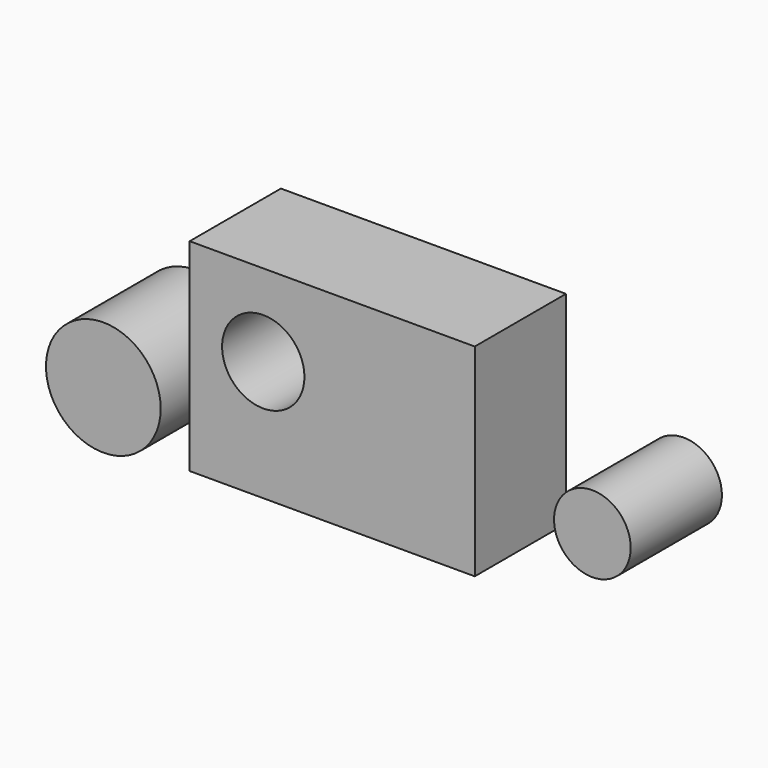
from build123d import *

# Parameters (mm, degrees)
F0_W     = 127
F0_H     = 90.137711
F0_R     = 18.337464
F0_R_2   = 25.556072
F0_R_3   = 17.074572
F1_DEPTH = 50.8


with BuildPart() as f1:
    # F0 (on Front) → F1 (new body)
    with BuildSketch(Plane.XZ):
        with Locations((4.070276, -2.093283)):
            Rectangle(F0_W, F0_H)
        with Locations((-26.642586, 6.3576)):
            Circle(F0_R, mode=Mode.SUBTRACT)
        with Locations((-97.885694, -26.915475)):
            Circle(F0_R_2)
        with Locations((119.95652, -13.399819)):
            Circle(F0_R_3)
    extrude(amount=F1_DEPTH)


solid = f1.part
